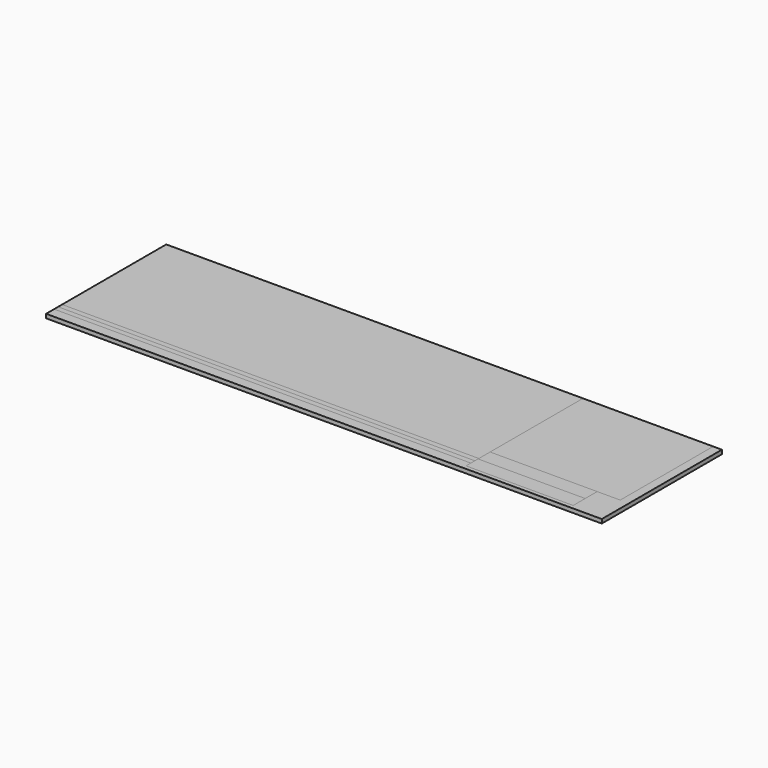
from build123d import *

# Parameters (mm, degrees)
F0_W      = 2220
F0_H      = 600
F1_DEPTH  = 16
F2_W      = 1665
F2_H      = 520
F3_DEPTH  = 16
F4_W      = 1665
F4_H      = 20
F5_DEPTH  = 16
F6_W      = 1665
F6_H      = 20
F7_DEPTH  = 16
F8_W      = 520
F8_H      = 464
F9_DEPTH  = 16
F10_W     = 428
F10_H     = 60
F11_DEPTH = 16
F12_W     = 428
F12_H     = 60
F13_DEPTH = 16


with BuildPart() as f1:
    # F0 (on Top) → F1 (new body)
    with BuildSketch(Plane.XY):
        Rectangle(F0_W, F0_H)
    extrude(amount=F1_DEPTH)


with BuildPart() as f3:
    # F2 (on face) → F3 (new body)
    with BuildSketch(Plane.XY.offset(16)):
        with Locations((-277.5, 40)):
            Rectangle(F2_W, F2_H)
    extrude(amount=-F3_DEPTH)


with BuildPart() as f5:
    # F4 (on face) → F5 (new body)
    with BuildSketch(Plane(origin=(0, 0, 0), x_dir=(1, 0, 0), z_dir=(0, 0, -1))):
        with Locations((-277.5, 230)):
            Rectangle(F4_W, F4_H)
    extrude(amount=-F5_DEPTH)


with BuildPart() as f7:
    # F6 (on face) → F7 (new body)
    with BuildSketch(Plane.XY.offset(16)):
        with Locations((-277.5, -250)):
            Rectangle(F6_W, F6_H)
    extrude(amount=-F7_DEPTH)


with BuildPart() as f9:
    # F8 (on face) → F9 (new body)
    with BuildSketch(Plane.XY.offset(16)):
        with Locations((815, 68)):
            Rectangle(F8_W, F8_H)
    extrude(amount=-F9_DEPTH)


with BuildPart() as f11:
    # F10 (on face) → F11 (new body)
    with BuildSketch(Plane(origin=(0, 0, 0), x_dir=(1, 0, 0), z_dir=(0, 0, -1))):
        with Locations((769, 194)):
            Rectangle(F10_W, F10_H)
    extrude(amount=-F11_DEPTH)


with BuildPart() as f13:
    # F12 (on face) → F13 (new body)
    with BuildSketch(Plane(origin=(0, 0, 0), x_dir=(1, 0, 0), z_dir=(0, 0, -1))):
        with Locations((769, 254)):
            Rectangle(F12_W, F12_H)
    extrude(amount=-F13_DEPTH)


solid = Compound([f1.part, f3.part, f5.part, f7.part, f9.part, f11.part, f13.part])
